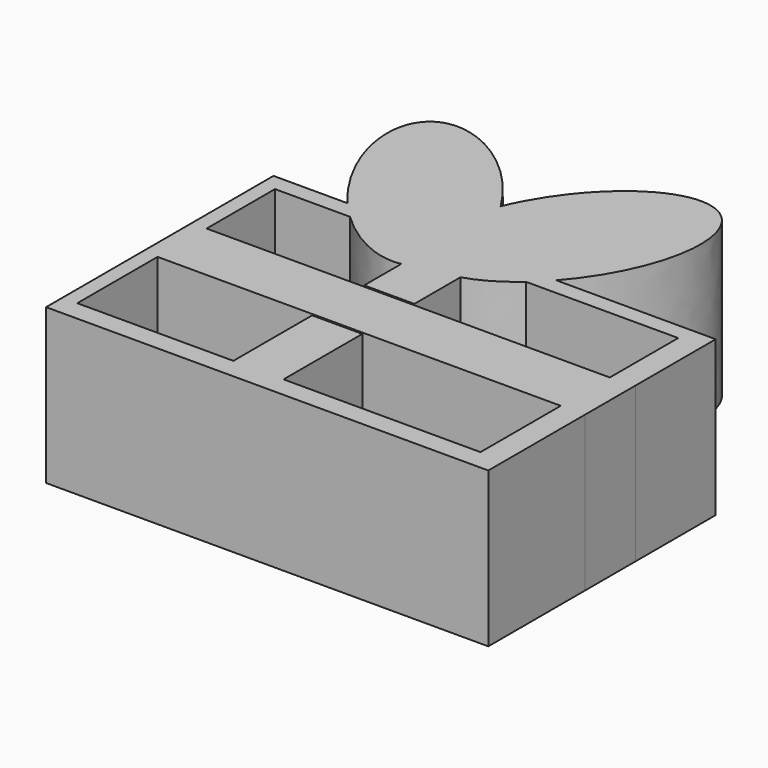
from build123d import *

# Parameters (mm, degrees)
F0_W     = 3.9624013007
F0_H     = 0.3047999926
F0_H_2   = 10.0584002212
F0_H_3   = 0.3047995269
F0_W_2   = 25.6032012403
F0_W_3   = 8.2296002656
F0_W_4   = 32.308800146
F0_H_4   = 16.1544019356
F1_DEPTH = 25.4


with BuildPart() as f1:
    # F0 (on Top) → F1 (new body)
    with BuildSketch(Plane.XY):
        with BuildLine():
            Line((-15.8900667789, 12.0395999402), (-28.041601181, 12.0395999402))
            Line((-28.041601181, 12.0395999402), (-28.041601181, -4.4196001254))
            Line((-28.041601181, -4.4196001254), (-28.041601181, -4.724400118))
            Line((-28.041601181, -4.724400118), (-28.041601181, -34.5948003232))
            Line((-28.041601181, -34.5948003232), (44.5008017123, -34.5948003232))
            Line((44.5008017123, -34.5948003232), (44.5008017123, -15.0875998661))
            Line((44.5008017123, -15.0875998661), (40.5384004116, -15.0875998661))
            Line((40.5384004116, -15.0875998661), (40.5384004116, -31.2420018017))
            Line((40.5384004116, -31.2420018017), (8.2296002656, -31.2420018017))
            Line((8.2296002656, -31.2420018017), (0, -31.2420018017))
            Line((0, -31.2420018017), (-25.6032012403, -31.2420018017))
            Line((-25.6032012403, -31.2420018017), (-25.6032012403, -15.0875998661))
            Line((-25.6032012403, -15.0875998661), (-25.6032012403, -14.7828003392))
            Line((-25.6032012403, -14.7828003392), (-25.6032012403, -4.724400118))
            Line((-25.6032012403, -4.724400118), (-25.6032012403, -4.4196001254))
            Line((-25.6032012403, -4.4196001254), (-25.6032012403, 9.2964004725))
            Line((-25.6032012403, 9.2964004725), (-13.2922040161, 9.2964004725))
            add(Edge.make_bspline(
                [(-15.8900667789, 12.0395999402), (-14.6364848786, 10.577993733), (-13.2922040161, 9.2964004725)],
                knots=[4.8620981812, 4.8620981812, 4.8620981812, 5.0551404857, 5.0551404857, 5.0551404857], degree=2, weights=[1, 0.9953454489, 1]))
        make_face()
        with BuildLine():
            add(Edge.make_bspline(
                [(-0.0459524764, 23.6396354942), (-12.3075236755, 43.2568413675), (-21.6312349961, 36.4306230791), (-30.9549463168, 29.6044047908), (-15.8900667789, 12.0395999402)],
                knots=[1.4186969328, 1.4186969328, 1.4186969328, 3.140397557, 3.140397557, 4.8620981812, 4.8620981812, 4.8620981812], degree=2, weights=[1, 0.6517928297, 1, 0.6517928297, 1]))
            Line((-15.8900667789, 12.0395999402), (18.3251665875, 12.0395999402))
            add(Edge.make_bspline(
                [(18.3251665875, 12.0395999402), (35.7401088205, 31.6436219481), (22.8849123581, 39.7607505508), (10.0297158956, 47.8778791536), (-0.0459524764, 23.6396354942)],
                knots=[1.2787151362, 1.2787151362, 1.2787151362, 3.1389972234, 3.1389972234, 4.9992793106, 4.9992793106, 4.9992793106], degree=2, weights=[1, 0.597720913, 1, 0.597720913, 1]))
        make_face()
        with BuildLine():
            Line((18.3251665875, 12.0395999402), (-15.8900667789, 12.0395999402))
            add(Edge.make_bspline(
                [(-15.8900667789, 12.0395999402), (-14.6364848786, 10.577993733), (-13.2922040161, 9.2964004725)],
                knots=[4.8620981812, 4.8620981812, 4.8620981812, 5.0551404857, 5.0551404857, 5.0551404857], degree=2, weights=[1, 0.9953454489, 1]))
            Line((-13.2922040161, 9.2964004725), (0, 9.2964004725))
            Line((0, 9.2964004725), (8.2296002656, 9.2964004725))
            Line((8.2296002656, 9.2964004725), (15.5637197095, 9.2964004725))
            add(Edge.make_bspline(
                [(15.5637197095, 9.2964004725), (16.9943693083, 10.5415197973), (18.3251665875, 12.0395999402)],
                knots=[1.0744371021, 1.0744371021, 1.0744371021, 1.2787151362, 1.2787151362, 1.2787151362], degree=2, weights=[1, 0.9947883438, 1]))
        make_face()
        with BuildLine():
            Line((44.5008017123, 12.0395999402), (18.3251665875, 12.0395999402))
            add(Edge.make_bspline(
                [(15.5637197095, 9.2964004725), (16.9943693083, 10.5415197973), (18.3251665875, 12.0395999402)],
                knots=[1.0744371021, 1.0744371021, 1.0744371021, 1.2787151362, 1.2787151362, 1.2787151362], degree=2, weights=[1, 0.9947883438, 1]))
            Line((15.5637197095, 9.2964004725), (40.5384004116, 9.2964004725))
            Line((40.5384004116, 9.2964004725), (40.5384004116, -4.4196001254))
            Line((40.5384004116, -4.4196001254), (44.5008017123, -4.4196001254))
            Line((44.5008017123, -4.4196001254), (44.5008017123, 12.0395999402))
        make_face()
        with Locations((42.5196010619, -4.5720001217)):
            Rectangle(F0_W, F0_H)
        with Locations((42.5196010619, -9.7536002286)):
            Rectangle(F0_W, F0_H_2)
        with Locations((42.5196010619, -14.9352001026)):
            Rectangle(F0_W, F0_H_3)
        with Locations((-12.8016006202, -9.7536002286)):
            Rectangle(F0_W_2, F0_H_2)
        with Locations((4.1148001328, -9.7536002286)):
            Rectangle(F0_W_3, F0_H_2)
        with BuildLine():
            add(Edge.make_bspline(
                [(0, 3.1989152126), (1.8653131229, 3.5637931111), (3.0191065103, 4.951677723)],
                knots=[6.0534716383, 6.0534716383, 6.0534716383, 6.4052485225, 6.4052485225, 6.4052485225], degree=2, weights=[1, 0.9845714653, 1]))
            Line((0, 3.1989152126), (0, -4.4196001254))
            Line((0, -4.4196001254), (8.2296002656, -4.4196001254))
            Line((8.2296002656, -4.4196001254), (8.2296002656, 5.0463356319))
            add(Edge.make_bspline(
                [(3.0191065103, 4.951677723), (5.3356081965, 4.2204520834), (8.2296002656, 5.0463356319)],
                knots=[0.1444827752, 0.1444827752, 0.1444827752, 0.5578499882, 0.5578499882, 0.5578499882], degree=2, weights=[1, 0.9787168701, 1]))
        make_face()
        with BuildLine():
            Line((8.2296002656, 9.2964004725), (0, 9.2964004725))
            Line((0, 9.2964004725), (0, 3.1989152126))
            add(Edge.make_bspline(
                [(0, 3.1989152126), (1.8653131229, 3.5637931111), (3.0191065103, 4.951677723)],
                knots=[6.0534716383, 6.0534716383, 6.0534716383, 6.4052485225, 6.4052485225, 6.4052485225], degree=2, weights=[1, 0.9845714653, 1]))
            add(Edge.make_bspline(
                [(3.0191065103, 4.951677723), (5.3356081965, 4.2204520834), (8.2296002656, 5.0463356319)],
                knots=[0.1444827752, 0.1444827752, 0.1444827752, 0.5578499882, 0.5578499882, 0.5578499882], degree=2, weights=[1, 0.9787168701, 1]))
            Line((8.2296002656, 5.0463356319), (8.2296002656, 9.2964004725))
        make_face()
        with Locations((24.3840003386, -9.7536002286)):
            Rectangle(F0_W_4, F0_H_2)
        with Locations((4.1148001328, -23.1648008339)):
            Rectangle(F0_W_3, F0_H_4)
        with BuildLine():
            Line((0, 9.2964004725), (-13.2922040161, 9.2964004725))
            add(Edge.make_bspline(
                [(-13.2922040161, 9.2964004725), (-5.7223534788, 2.0795533819), (0, 3.1989152126)],
                knots=[5.0551404857, 5.0551404857, 5.0551404857, 6.0534716383, 6.0534716383, 6.0534716383], degree=2, weights=[1, 0.8779823004, 1]))
            Line((0, 3.1989152126), (0, 9.2964004725))
        make_face()
        with BuildLine():
            add(Edge.make_bspline(
                [(8.2296002656, 5.0463356319), (11.8760455455, 6.0869532617), (15.5637197095, 9.2964004725)],
                knots=[0.5578499882, 0.5578499882, 0.5578499882, 1.0744371021, 1.0744371021, 1.0744371021], degree=2, weights=[1, 0.9668272642, 1]))
            Line((15.5637197095, 9.2964004725), (8.2296002656, 9.2964004725))
            Line((8.2296002656, 9.2964004725), (8.2296002656, 5.0463356319))
        make_face()
    extrude(amount=F1_DEPTH)


solid = f1.part
